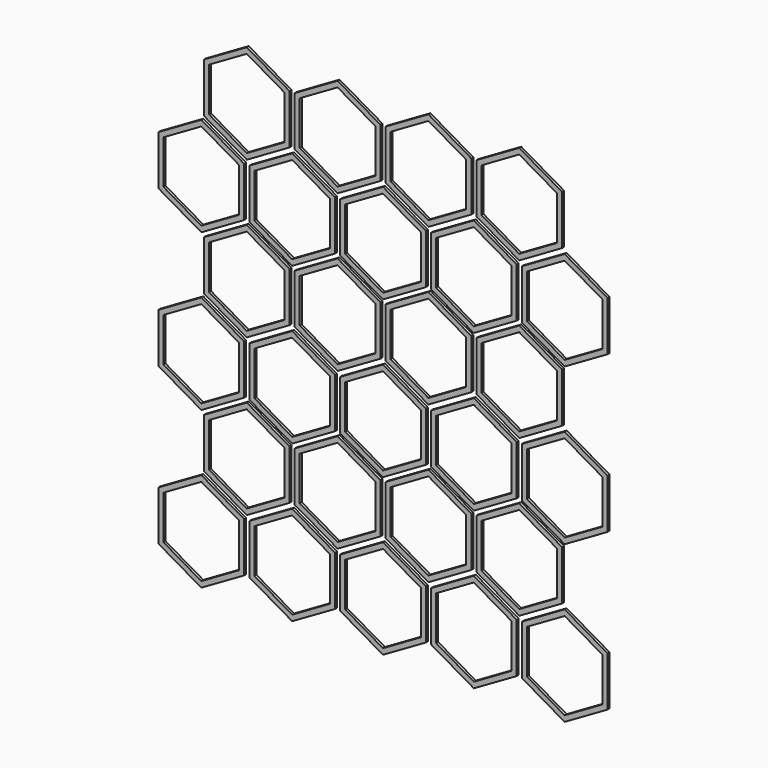
from build123d import *

# Parameters (mm, degrees)
F1_DEPTH = 1


with BuildPart() as f1:
    # F0 (on Front) → F1 (new body)
    with BuildSketch(Plane.XZ):
        Polygon((17, 9.814955), (0, 19.629909), (-17, 9.814955), (-17, -9.814955), (0, -19.629909), (17, -9.814955), align=None)
        Polygon((0, 17.320508), (15, 8.660254), (15, -8.660254), (0, -17.320508), (-15, -8.660254), (-15, 8.660254), align=None, mode=Mode.SUBTRACT)
        Polygon((53, 9.814955), (36, 19.629909), (19, 9.814955), (19, -9.814955), (36, -19.629909), (53, -9.814955), align=None)
        Polygon((21, 8.660254), (36, 17.320508), (51, 8.660254), (51, -8.660254), (36, -17.320508), (21, -8.660254), align=None, mode=Mode.SUBTRACT)
        Polygon((89, 9.814955), (72, 19.629909), (55, 9.814955), (55, -9.814955), (72, -19.629909), (89, -9.814955), align=None)
        Polygon((57, 8.660254), (72, 17.320508), (87, 8.660254), (87, -8.660254), (72, -17.320508), (57, -8.660254), align=None, mode=Mode.SUBTRACT)
        Polygon((18, 11.547005), (35, 21.36196), (35, 40.991869), (18, 50.806824), (1, 40.991869), (1, 21.36196), align=None)
        Polygon((18, 48.497423), (33, 39.837169), (33, 22.51666), (18, 13.856406), (3, 22.51666), (3, 39.837169), align=None, mode=Mode.SUBTRACT)
        Polygon((37, 40.991869), (37, 21.36196), (54, 11.547005), (71, 21.36196), (71, 40.991869), (54, 50.806824), align=None)
        Polygon((39, 39.837169), (54, 48.497423), (69, 39.837169), (69, 22.51666), (54, 13.856406), (39, 22.51666), align=None, mode=Mode.SUBTRACT)
        Polygon((125, 9.814955), (108, 19.629909), (91, 9.814955), (91, -9.814955), (108, -19.629909), (125, -9.814955), align=None)
        Polygon((93, 8.660254), (108, 17.320508), (123, 8.660254), (123, -8.660254), (108, -17.320508), (93, -8.660254), align=None, mode=Mode.SUBTRACT)
        Polygon((161, 9.814955), (144, 19.629909), (127, 9.814955), (127, -9.814955), (144, -19.629909), (161, -9.814955), align=None)
        Polygon((129, 8.660254), (144, 17.320508), (159, 8.660254), (159, -8.660254), (144, -17.320508), (129, -8.660254), align=None, mode=Mode.SUBTRACT)
        Polygon((107, 21.36196), (107, 40.991869), (90, 50.806824), (73, 40.991869), (73, 21.36196), (90, 11.547005), align=None)
        Polygon((75, 39.837169), (90, 48.497423), (105, 39.837169), (105, 22.51666), (90, 13.856406), (75, 22.51666), align=None, mode=Mode.SUBTRACT)
        Polygon((143, 21.36196), (143, 40.991869), (126, 50.806824), (109, 40.991869), (109, 21.36196), (126, 11.547005), align=None)
        Polygon((141, 22.51666), (126, 13.856406), (111, 22.51666), (111, 39.837169), (126, 48.497423), (141, 39.837169), align=None, mode=Mode.SUBTRACT)
        Polygon((71, 102.991869), (54, 112.806824), (37, 102.991869), (37, 83.36196), (54, 73.547005), (71, 83.36196), align=None)
        Polygon((54, 110.497423), (69, 101.837169), (69, 84.51666), (54, 75.856406), (39, 84.51666), (39, 101.837169), align=None, mode=Mode.SUBTRACT)
        Polygon((17, 71.814955), (0, 81.629909), (-17, 71.814955), (-17, 52.185045), (0, 42.370091), (17, 52.185045), align=None)
        Polygon((-15, 70.660254), (0, 79.320508), (15, 70.660254), (15, 53.339746), (0, 44.679492), (-15, 53.339746), align=None, mode=Mode.SUBTRACT)
        Polygon((143, 102.991869), (126, 112.806824), (109, 102.991869), (109, 83.36196), (126, 73.547005), (143, 83.36196), align=None)
        Polygon((126, 75.856406), (111, 84.51666), (111, 101.837169), (126, 110.497423), (141, 101.837169), (141, 84.51666), align=None, mode=Mode.SUBTRACT)
        Polygon((89, 52.185045), (89, 71.814955), (72, 81.629909), (55, 71.814955), (55, 52.185045), (72, 42.370091), align=None)
        Polygon((72, 79.320508), (87, 70.660254), (87, 53.339746), (72, 44.679492), (57, 53.339746), (57, 70.660254), align=None, mode=Mode.SUBTRACT)
        Polygon((18, 73.547005), (35, 83.36196), (35, 102.991869), (18, 112.806824), (1, 102.991869), (1, 83.36196), align=None)
        Polygon((3, 84.51666), (3, 101.837169), (18, 110.497423), (33, 101.837169), (33, 84.51666), (18, 75.856406), align=None, mode=Mode.SUBTRACT)
        Polygon((73, 83.36196), (90, 73.547005), (107, 83.36196), (107, 102.991869), (90, 112.806824), (73, 102.991869), align=None)
        Polygon((90, 75.856406), (75, 84.51666), (75, 101.837169), (90, 110.497423), (105, 101.837169), (105, 84.51666), align=None, mode=Mode.SUBTRACT)
        Polygon((125, 52.185045), (125, 71.814955), (108, 81.629909), (91, 71.814955), (91, 52.185045), (108, 42.370091), align=None)
        Polygon((108, 79.320508), (123, 70.660254), (123, 53.339746), (108, 44.679492), (93, 53.339746), (93, 70.660254), align=None, mode=Mode.SUBTRACT)
        Polygon((144, 81.629909), (127, 71.814955), (127, 52.185045), (144, 42.370091), (161, 52.185045), (161, 71.814955), align=None)
        Polygon((129, 53.339746), (129, 70.660254), (144, 79.320508), (159, 70.660254), (159, 53.339746), (144, 44.679492), align=None, mode=Mode.SUBTRACT)
        Polygon((19, 52.185045), (36, 42.370091), (53, 52.185045), (53, 71.814955), (36, 81.629909), (19, 71.814955), align=None)
        Polygon((51, 70.660254), (51, 53.339746), (36, 44.679492), (21, 53.339746), (21, 70.660254), (36, 79.320508), align=None, mode=Mode.SUBTRACT)
        Polygon((71, 164.991869), (54, 174.806824), (37, 164.991869), (37, 145.36196), (54, 135.547005), (71, 145.36196), align=None)
        Polygon((54, 172.497423), (69, 163.837169), (69, 146.51666), (54, 137.856406), (39, 146.51666), (39, 163.837169), align=None, mode=Mode.SUBTRACT)
        Polygon((17, 133.814955), (0, 143.629909), (-17, 133.814955), (-17, 114.185045), (0, 104.370091), (17, 114.185045), align=None)
        Polygon((-15, 132.660254), (0, 141.320508), (15, 132.660254), (15, 115.339746), (0, 106.679492), (-15, 115.339746), align=None, mode=Mode.SUBTRACT)
        Polygon((143, 164.991869), (126, 174.806824), (109, 164.991869), (109, 145.36196), (126, 135.547005), (143, 145.36196), align=None)
        Polygon((126, 137.856406), (111, 146.51666), (111, 163.837169), (126, 172.497423), (141, 163.837169), (141, 146.51666), align=None, mode=Mode.SUBTRACT)
        Polygon((89, 114.185045), (89, 133.814955), (72, 143.629909), (55, 133.814955), (55, 114.185045), (72, 104.370091), align=None)
        Polygon((72, 141.320508), (87, 132.660254), (87, 115.339746), (72, 106.679492), (57, 115.339746), (57, 132.660254), align=None, mode=Mode.SUBTRACT)
        Polygon((18, 135.547005), (35, 145.36196), (35, 164.991869), (18, 174.806824), (1, 164.991869), (1, 145.36196), align=None)
        Polygon((3, 146.51666), (3, 163.837169), (18, 172.497423), (33, 163.837169), (33, 146.51666), (18, 137.856406), align=None, mode=Mode.SUBTRACT)
        Polygon((73, 145.36196), (90, 135.547005), (107, 145.36196), (107, 164.991869), (90, 174.806824), (73, 164.991869), align=None)
        Polygon((90, 137.856406), (75, 146.51666), (75, 163.837169), (90, 172.497423), (105, 163.837169), (105, 146.51666), align=None, mode=Mode.SUBTRACT)
        Polygon((125, 114.185045), (125, 133.814955), (108, 143.629909), (91, 133.814955), (91, 114.185045), (108, 104.370091), align=None)
        Polygon((108, 141.320508), (123, 132.660254), (123, 115.339746), (108, 106.679492), (93, 115.339746), (93, 132.660254), align=None, mode=Mode.SUBTRACT)
        Polygon((144, 143.629909), (127, 133.814955), (127, 114.185045), (144, 104.370091), (161, 114.185045), (161, 133.814955), align=None)
        Polygon((129, 115.339746), (129, 132.660254), (144, 141.320508), (159, 132.660254), (159, 115.339746), (144, 106.679492), align=None, mode=Mode.SUBTRACT)
        Polygon((19, 114.185045), (36, 104.370091), (53, 114.185045), (53, 133.814955), (36, 143.629909), (19, 133.814955), align=None)
        Polygon((51, 132.660254), (51, 115.339746), (36, 106.679492), (21, 115.339746), (21, 132.660254), (36, 141.320508), align=None, mode=Mode.SUBTRACT)
    extrude(amount=F1_DEPTH)


solid = f1.part
